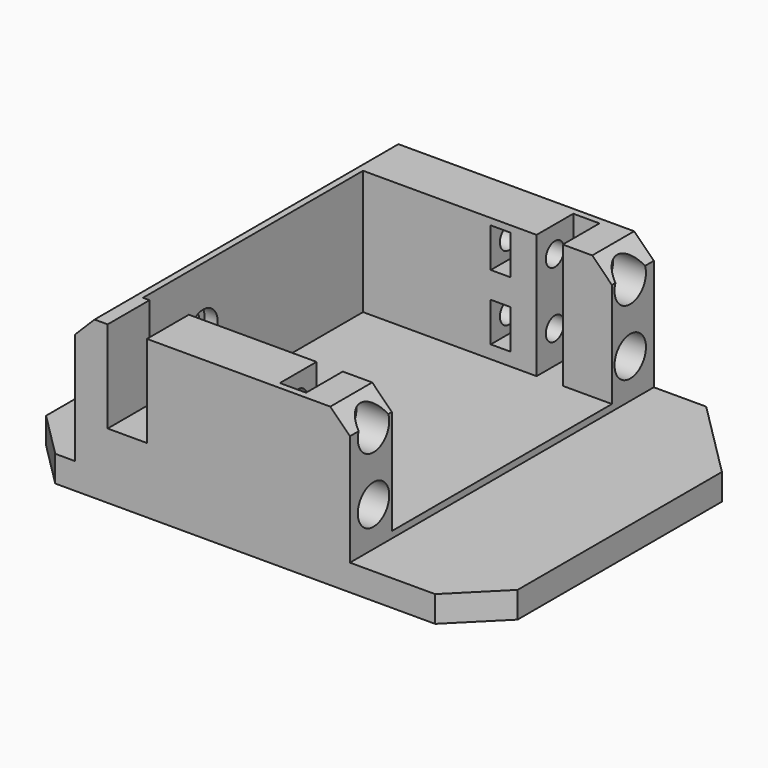
from build123d import *

# Parameters (mm, degrees)
BOX056_W                = 72
BOX056_H                = 58
BOX056_DEPTH            = 4
BOX024_W                = 6
BOX024_H                = 36
BOX024_DEPTH            = 23
CYLINDER011_R           = 2.75
CYLINDER011_DEPTH       = 74.5
CYLINDER011_PITCH_ANGLE = 90
CYLINDER008_R           = 1.75
CYLINDER008_DEPTH       = 21.5
CYLINDER008_PITCH_ANGLE = 90
CYLINDER009_R           = 3
CYLINDER009_DEPTH       = 21.5
CYLINDER009_PITCH_ANGLE = 90
BOX007_W                = 3
BOX007_H                = 56
BOX007_DEPTH            = 6
BOX008_W                = 3
BOX008_H                = 56
BOX008_DEPTH            = 6
BOX006_W                = 4
BOX006_H                = 56
BOX006_DEPTH            = 21
CYLINDER003_R           = 1.75
CYLINDER003_DEPTH       = 74.5
CYLINDER003_PITCH_ANGLE = 90
BOX003_W                = 28
BOX003_H                = 88
BOX003_DEPTH            = 38
BOX002_W                = 28
BOX002_H                = 88
BOX002_DEPTH            = 38
BOX001_W                = 47
BOX001_H                = 42
BOX001_DEPTH            = 25
BOX_W                   = 72
BOX_H                   = 58
BOX_DEPTH               = 24
FILLET_R                = 10
CHAMFER_SIZE            = 3
CHAMFER110_1_SIZE       = 12
CHAMFER110_2_SIZE       = 7


with BuildPart() as cubo006:
    # Box056 → Box056 (new body)
    with BuildSketch(Plane(origin=(-15, -29, -2), x_dir=(1, 0, 0), z_dir=(0, 0, 1))):
        with Locations((36, 29)):
            Rectangle(BOX056_W, BOX056_H)
    extrude(amount=BOX056_DEPTH)


with BuildPart() as cube024:
    # Box024 → Box024 (new body)
    with BuildSketch(Plane(origin=(0, 19, 7), x_dir=(1, 0, 0), z_dir=(0, 0, 1))):
        with Locations((3, 18)):
            Rectangle(BOX024_W, BOX024_H)
    extrude(amount=BOX024_DEPTH)


with BuildPart() as joint_d013:
    # Cylinder011 → Cylinder011 (new body)
    with BuildSketch(Plane.XY):
        Circle(CYLINDER011_R)
    extrude(amount=CYLINDER011_DEPTH)


with BuildPart() as joint_d013_1:
    # Cylinder011 pitch: moved
    add(joint_d013.part.rotate(Axis((0, 0, 0), (0, 1, 0)), CYLINDER011_PITCH_ANGLE))


with BuildPart() as joint_d013_2:
    # Cylinder011 placement: moved
    add(joint_d013_1.part.moved(Location((-3, 9.5, 12))))


with BuildPart() as joint_d010:
    # Cylinder008 → Cylinder008 (new body)
    with BuildSketch(Plane.XY):
        Circle(CYLINDER008_R)
    extrude(amount=CYLINDER008_DEPTH)


with BuildPart() as joint_d010_1:
    # Cylinder008 pitch: moved
    add(joint_d010.part.rotate(Axis((0, 0, 0), (0, 1, 0)), CYLINDER008_PITCH_ANGLE))


with BuildPart() as joint_d010_2:
    # Cylinder008 placement: moved
    add(joint_d010_1.part.moved(Location((16, -24.5, 7))))


with BuildPart() as joint_d011:
    # Cylinder009 → Cylinder009 (new body)
    with BuildSketch(Plane.XY):
        Circle(CYLINDER009_R)
    extrude(amount=CYLINDER009_DEPTH)


with BuildPart() as joint_d011_1:
    # Cylinder009 pitch: moved
    add(joint_d011.part.rotate(Axis((0, 0, 0), (0, 1, 0)), CYLINDER009_PITCH_ANGLE))


with BuildPart() as joint_d011_2:
    # Cylinder009 placement: moved
    add(joint_d011_1.part.moved(Location((32, -24.5, 7))))


with BuildPart() as fusion001:
    # Fusion001 base: copy of Joint-D011
    add(joint_d011_2.part)

    # Fusion001: union Joint-D010
    add(joint_d010_2.part)


with BuildPart() as fusion002:
    # Fusion002 base: copy of Joint-D011
    add(joint_d011_2.part)

    # Fusion002: union Joint-D010
    add(joint_d010_2.part)


with BuildPart() as fusion002_1:
    # Fusion002 placement: moved
    add(fusion002.part.moved(Location((0, 0, 10))))


with BuildPart() as fusion003:
    # Fusion003 base: copy of Joint-D011
    add(joint_d011_2.part)

    # Fusion003: union Joint-D010
    add(joint_d010_2.part)


with BuildPart() as fusion003_1:
    # Fusion003 placement: moved
    add(fusion003.part.moved(Location((0, 49, 0))))


with BuildPart() as fusion004:
    # Fusion004 base: copy of Joint-D011
    add(joint_d011_2.part)

    # Fusion004: union Joint-D010
    add(joint_d010_2.part)


with BuildPart() as fusion004_1:
    # Fusion004 placement: moved
    add(fusion004.part.moved(Location((0, 49, 10))))


with BuildPart() as cube007:
    # Box007 → Box007 (new body)
    with BuildSketch(Plane(origin=(18.5, -28, 4), x_dir=(1, 0, 0), z_dir=(0, 0, 1))):
        with Locations((1.5, 28)):
            Rectangle(BOX007_W, BOX007_H)
    extrude(amount=BOX007_DEPTH)


with BuildPart() as cube008:
    # Box008 → Box008 (new body)
    with BuildSketch(Plane(origin=(18.5, -28, 14), x_dir=(1, 0, 0), z_dir=(0, 0, 1))):
        with Locations((1.5, 28)):
            Rectangle(BOX008_W, BOX008_H)
    extrude(amount=BOX008_DEPTH)


with BuildPart() as cube006:
    # Box006 → Box006 (new body)
    with BuildSketch(Plane(origin=(25.5, -28, 2), x_dir=(1, 0, 0), z_dir=(0, 0, 1))):
        with Locations((2, 28)):
            Rectangle(BOX006_W, BOX006_H)
    extrude(amount=BOX006_DEPTH)


with BuildPart() as joint_d005:
    # Cylinder003 → Cylinder003 (new body)
    with BuildSketch(Plane.XY):
        Circle(CYLINDER003_R)
    extrude(amount=CYLINDER003_DEPTH)


with BuildPart() as joint_d005_1:
    # Cylinder003 pitch: moved
    add(joint_d005.part.rotate(Axis((0, 0, 0), (0, 1, 0)), CYLINDER003_PITCH_ANGLE))


with BuildPart() as joint_d005_2:
    # Cylinder003 placement: moved
    add(joint_d005_1.part.moved(Location((-22, 9.5, 12))))


with BuildPart() as cube003:
    # Box003 → Box003 (new body)
    with BuildSketch(Plane(origin=(-33, -45, 1), x_dir=(1, 0, 0), z_dir=(0, 0, 1))):
        with Locations((14, 44)):
            Rectangle(BOX003_W, BOX003_H)
    extrude(amount=BOX003_DEPTH)


with BuildPart() as cube002:
    # Box002 → Box002 (new body)
    with BuildSketch(Plane(origin=(37, -45, 1), x_dir=(1, 0, 0), z_dir=(0, 0, 1))):
        with Locations((14, 44)):
            Rectangle(BOX002_W, BOX002_H)
    extrude(amount=BOX002_DEPTH)


with BuildPart() as cube001:
    # Box001 → Box001 (new body)
    with BuildSketch(Plane(origin=(-1, -21, 2), x_dir=(1, 0, 0), z_dir=(0, 0, 1))):
        with Locations((23.5, 21)):
            Rectangle(BOX001_W, BOX001_H)
    extrude(amount=BOX001_DEPTH)


with BuildPart() as obj1:
    # Box → Box (new body)
    with BuildSketch(Plane(origin=(-15, -29, -3), x_dir=(1, 0, 0), z_dir=(0, 0, 1))):
        with Locations((36, 29)):
            Rectangle(BOX_W, BOX_H)
    extrude(amount=BOX_DEPTH)

    # Cut: cut Cube001
    add(cube001.part, mode=Mode.SUBTRACT)

    # Cut001: cut Cube002
    add(cube002.part, mode=Mode.SUBTRACT)

    # Cut002: cut Cube003
    add(cube003.part, mode=Mode.SUBTRACT)

    # Fillet
    fillet_edges = [obj1.edges().sort_by_distance(p)[0] for p in [
        (-15, -29, -1),
        (-15, 29, -1),
        (57, -29, -1),
        (57, 29, -1),
    ]]
    fillet(fillet_edges, radius=FILLET_R)

    # Chamfer
    chamfer_edges = [obj1.edges().sort_by_distance(p)[0] for p in [
        (-5, 0, 21),
        (37, 25, 21),
        (37, -25, 21),
    ]]
    chamfer(chamfer_edges, length=CHAMFER_SIZE)

    # Cut008: cut Joint-D005
    add(joint_d005_2.part, mode=Mode.SUBTRACT)

    # Cut010: cut Cube006
    add(cube006.part, mode=Mode.SUBTRACT)

    # Cut011: cut Cube008
    add(cube008.part, mode=Mode.SUBTRACT)

    # Cut012: cut Cube007
    add(cube007.part, mode=Mode.SUBTRACT)

    # Cut013: cut Fusion004
    add(fusion004_1.part, mode=Mode.SUBTRACT)

    # Cut014: cut Fusion003
    add(fusion003_1.part, mode=Mode.SUBTRACT)

    # Cut015: cut Fusion002
    add(fusion002_1.part, mode=Mode.SUBTRACT)

    # Cut016: cut Fusion001
    add(fusion001.part, mode=Mode.SUBTRACT)

    # Cut017: cut Joint-D013
    add(joint_d013_2.part, mode=Mode.SUBTRACT)

    # Cut039: cut Cube024
    add(cube024.part, mode=Mode.SUBTRACT)


with BuildPart() as obj1_1:
    # Cut039 placement: moved
    add(obj1.part.moved(Location((0, 0, 1))))

    # Fusion060: union Cubo006
    add(cubo006.part)

    # Chamfer110 1
    chamfer110_1_edges = [obj1_1.edges().sort_by_distance(p)[0] for p in [
        (57, -29, 0),
    ]]
    chamfer(chamfer110_1_edges, length=CHAMFER110_1_SIZE)

    # Chamfer110 2
    chamfer110_2_edges = [obj1_1.edges().sort_by_distance(p)[0] for p in [
        (-15, -29, 0),
        (57, 29, 0),
        (-15, 29, 0),
    ]]
    chamfer(chamfer110_2_edges, length=CHAMFER110_2_SIZE)


with BuildPart() as part_mirroring007011:
    # Part__Mirroring007011: instance of obj1
    add(obj1_1.part.mirror(Plane(origin=(0, 0, 0), x_dir=(1, 0, 0), z_dir=(0, 1, 0))))


with BuildPart() as part_mirroring007011_1:
    # Part__Mirroring007011 placement: moved
    add(part_mirroring007011.part.moved(Location((0, 72, 0))))


solid = part_mirroring007011_1.part
